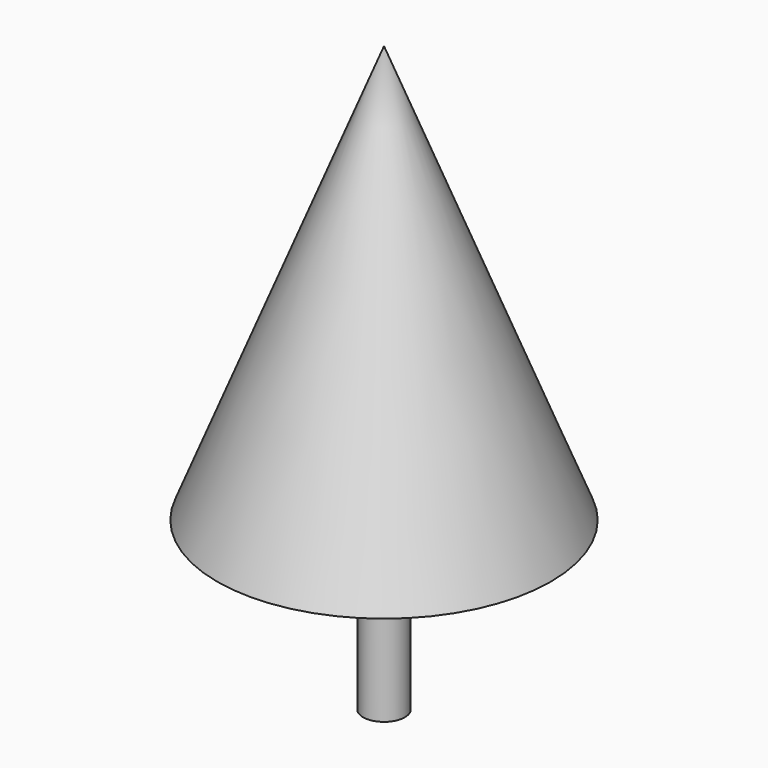
from build123d import *

# Parameters (mm, degrees)
F0_R     = 76.2
F1_DEPTH = 609.6


with BuildPart() as f1:
    # F0 (on Top) → F1 (new body)
    with BuildSketch(Plane.XY):
        Circle(F0_R)
    extrude(amount=F1_DEPTH)

    # F2 (on Front) → F3 (revolve)
    with BuildSketch(Plane.XZ):
        Polygon((0, 2133.6), (0, 609.6), (609.6, 609.6), align=None)
    revolve(axis=Axis((0, 0, 1371.6), (0, 0, 1)))


solid = f1.part
